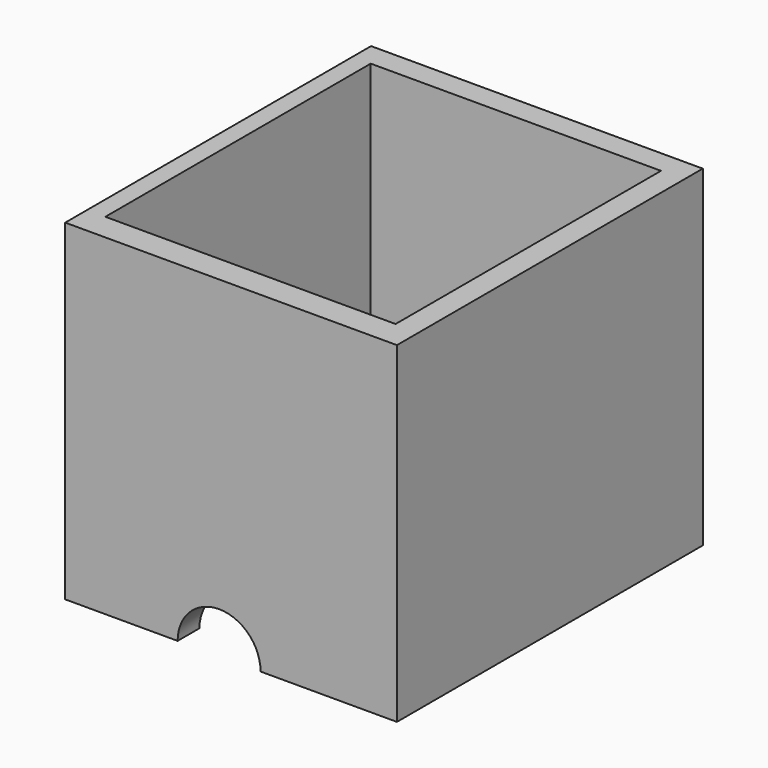
from build123d import *

# Parameters (mm, degrees)
F0_W     = 101.6
F0_H     = 101.6
F2_DEPTH = 117.094
F3_DEPTH = 117.094
F4_W     = 88.9
F4_H     = 101.6
F5_DEPTH = 104.394


with BuildPart() as f2:
    # F0 (on Front) → F2 (new body)
    with BuildSketch(Plane.XZ):
        with Locations((50.8, 50.8)):
            Rectangle(F0_W, F0_H)
    extrude(amount=-F2_DEPTH)

    # F1 (on face) → F3 (cut)
    with BuildSketch(Plane.XZ):
        with BuildLine():
            Line((34.425654, 0), (59.831641, 0))
            ThreePointArc((59.831641, 0), (47.128648, 12.702994), (34.425654, 0))
        make_face()
    extrude(amount=-F3_DEPTH, mode=Mode.SUBTRACT)

    # F4 (on face) → F5 (cut)
    with BuildSketch(Plane.XY.offset(101.6)):
        with Locations((50.05706, 59.151817)):
            Rectangle(F4_W, F4_H)
    extrude(amount=-F5_DEPTH, mode=Mode.SUBTRACT)


solid = f2.part
